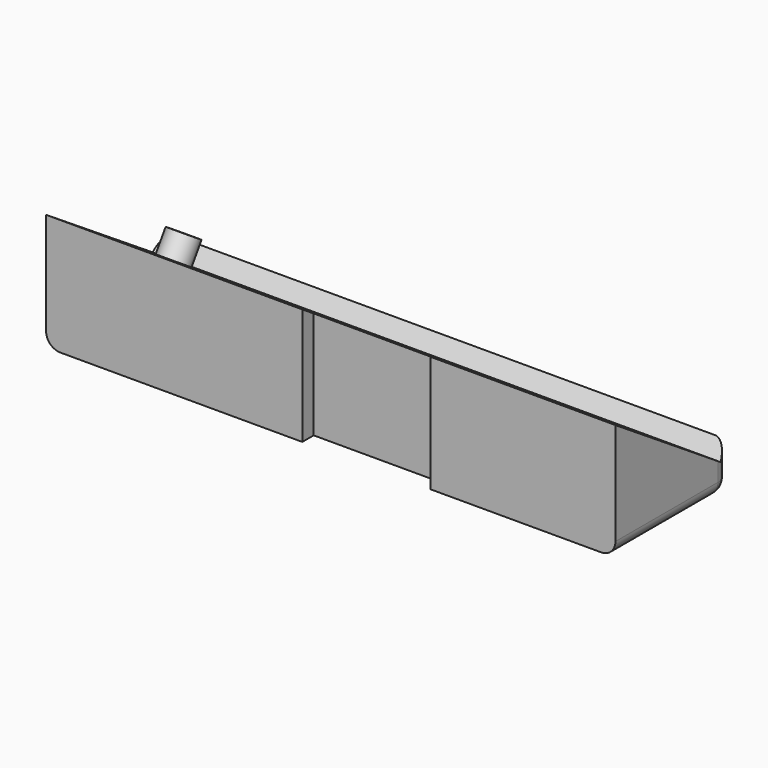
from build123d import *

# Parameters (mm, degrees)
F0_W     = 101.6
F0_H     = 25.4
F1_DEPTH = 25.4
F3_DEPTH = 101.6
F4_R     = 2.54
F5_R     = 2.667
F6_DEPTH = 4.064
F7_W     = 22.86
F7_H     = 20.81151
F8_DEPTH = 2.54


with BuildPart() as f1:
    # F0 (on Top) → F1 (new body)
    with BuildSketch(Plane.XY):
        with Locations((0, -0.170567)):
            Rectangle(F0_W, F0_H)
    extrude(amount=F1_DEPTH)

    # F2 (on face) → F3 (cut, through all)
    with BuildSketch(Plane(origin=(-50.8, 0, 0), x_dir=(0, -1, 0), z_dir=(-1, 0, 0))):
        Polygon((-12.529433, 25.4), (-12.529433, 8.090758), (-10.742588, 5.36007), (12.870567, 20.81151), (12.870567, 25.4), align=None)
    extrude(amount=-F3_DEPTH, mode=Mode.SUBTRACT)

    # F4
    f4_edges = [f1.edges().sort_by_distance(p)[0] for p in [
        (50.8, 12.529433, 4.045379),
        (50.8, -0.170567, 0),
        (-50.8, -0.170567, 0),
        (-50.8, 12.529433, 4.045379),
        (0, 12.529433, 0),
    ]]
    fillet(f4_edges, radius=F4_R)

    # F5 (on face) → F6 (join)
    with BuildSketch(Plane(origin=(0, 5.676581, 8.675048), x_dir=(1, 0, 0), z_dir=(0, 0.547549, 0.836774))):
        with Locations((-40.64, -3.343786)):
            Circle(F5_R)
    extrude(amount=F6_DEPTH)

    # F7 (on face) → F8 (cut)
    with BuildSketch(Plane.XZ.offset(12.870567)):
        with Locations((6.35, 10.405755)):
            Rectangle(F7_W, F7_H)
    extrude(amount=-F8_DEPTH, mode=Mode.SUBTRACT)


solid = f1.part
